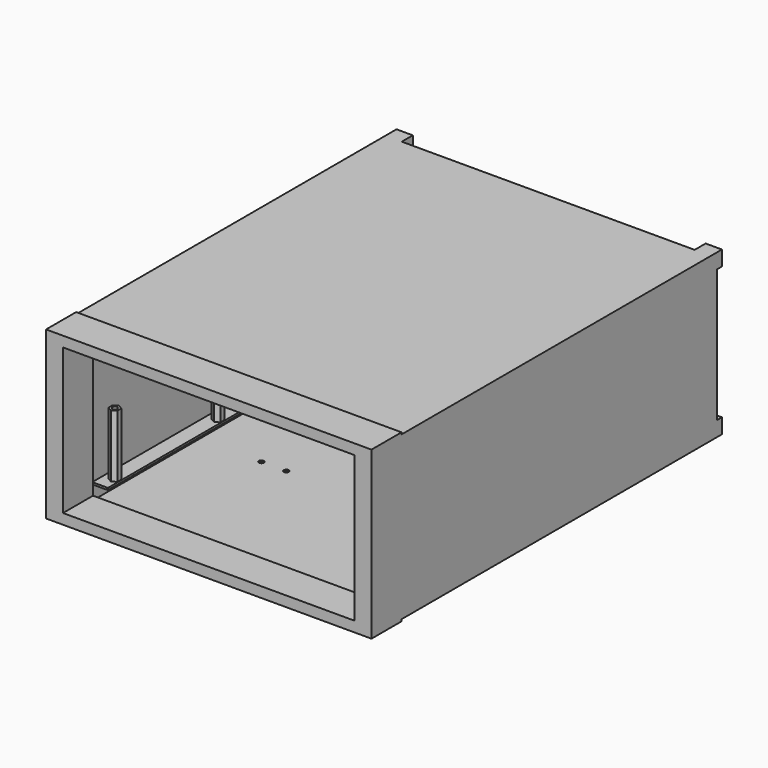
from build123d import *

# Parameters (mm, degrees)
F0_W      = 260
F0_H      = 350
F1_DEPTH  = 133
F2_W      = 260
F2_H      = 330
F3_DEPTH  = 1.5
F4_W      = 260
F4_H      = 330
F5_DEPTH  = 1.5
F6_W      = 234
F6_H      = 11
F7_DEPTH  = 131.501
F10_R     = 2
F11_DEPTH = 25
F12_W     = 239
F12_H     = 128
F13_DEPTH = 330.5
F14_W     = 260
F14_H     = 133
F14_W_2   = 233
F14_H_2   = 116.5
F15_DEPTH = 30
F9_W      = 13
F9_H      = 106
F8_W      = 13
F8_H      = 106
F16_DEPTH = 5
F17_W     = 230
F17_H     = 116.25
F18_DEPTH = 25
F19_W     = 281.5
F19_H     = 1.6
F20_DEPTH = 12.5
F21_W     = 281.5
F21_H     = 1.6
F22_DEPTH = 12.5
F23_R     = 2
F24_DEPTH = 50


with BuildPart() as f1:
    # F0 (on Top) → F1 (new body)
    with BuildSketch(Plane.XY):
        Rectangle(F0_W, F0_H)
    extrude(amount=F1_DEPTH)

    # F2 (on face) → F3 (cut)
    with BuildSketch(Plane.XY.offset(133)):
        with Locations((0, 10)):
            Rectangle(F2_W, F2_H)
    extrude(amount=-F3_DEPTH, mode=Mode.SUBTRACT)

    # F4 (on face) → F5 (cut)
    with BuildSketch(Plane(origin=(0, 0, 0), x_dir=(1, 0, 0), z_dir=(0, 0, -1))):
        with Locations((0, -10)):
            Rectangle(F4_W, F4_H)
    extrude(amount=-F5_DEPTH, mode=Mode.SUBTRACT)

    # F6 (on face) → F7 (cut, through all)
    with BuildSketch(Plane.XY.offset(131.5)):
        with Locations((0, 169.5)):
            Rectangle(F6_W, F6_H)
    extrude(amount=-F7_DEPTH, mode=Mode.SUBTRACT)

    # F10 (on face) → F11 (cut)
    with BuildSketch(Plane(origin=(0, 0, 1.5), x_dir=(1, 0, 0), z_dir=(0, 0, -1))):
        with Locations((70, 35)):
            Circle(F10_R)
        with Locations((50, 35)):
            Circle(F10_R)
        with Locations((-70, 35)):
            Circle(F10_R)
        with Locations((-50, 35)):
            Circle(F10_R)
        with Locations((70, -134)):
            Circle(F10_R)
        with Locations((50, -134)):
            Circle(F10_R)
        with Locations((-50, -134)):
            Circle(F10_R)
        with Locations((-70, -134)):
            Circle(F10_R)
    extrude(amount=-F11_DEPTH, mode=Mode.SUBTRACT)

    # F12 (on face) → F13 (cut)
    with BuildSketch(Plane.XZ.offset(175)):
        with Locations((0, 66.5)):
            Rectangle(F12_W, F12_H)
    extrude(amount=-F13_DEPTH, mode=Mode.SUBTRACT)

    # F14 (on face) → F15 (join)
    with BuildSketch(Plane.XZ.offset(175)):
        with Locations((0, 66.5)):
            Rectangle(F14_W, F14_H)
        with Locations((0, 66.5)):
            Rectangle(F14_W_2, F14_H_2, mode=Mode.SUBTRACT)
    extrude(amount=-F15_DEPTH)

    # F9 (on face) + F8 (on face) → F16 (cut)
    with BuildSketch(Plane(origin=(0, 175, 0), x_dir=(-1, 0, 0), z_dir=(0, 1, 0))):
        with Locations((-123.5, 66.5)):
            Rectangle(F9_W, F9_H)
    with BuildSketch(Plane(origin=(0, 175, 0), x_dir=(-1, 0, 0), z_dir=(0, 1, 0))):
        with Locations((123.5, 66.5)):
            Rectangle(F8_W, F8_H)
    extrude(amount=-F16_DEPTH, mode=Mode.SUBTRACT)

    # F17 (on face) → F18 (cut)
    with BuildSketch(Plane(origin=(0, 175, 0), x_dir=(-1, 0, 0), z_dir=(0, 1, 0))):
        with Locations((0, 66.5)):
            Rectangle(F17_W, F17_H)
    extrude(amount=-F18_DEPTH, mode=Mode.SUBTRACT)

    # F19 (on face) → F20 (join)
    with BuildSketch(Plane.YZ.offset(-119.5)):
        with Locations((-1.25, 14.8)):
            Rectangle(F19_W, F19_H)
    extrude(amount=F20_DEPTH)

    # F21 (on face) → F22 (join)
    with BuildSketch(Plane(origin=(119.5, 0, 0), x_dir=(0, -1, 0), z_dir=(-1, 0, 0))):
        with Locations((1.25, 14.8)):
            Rectangle(F21_W, F21_H)
    extrude(amount=F22_DEPTH)

    # F23 (on face) → F24 (join)
    with BuildSketch(Plane.XY.offset(15.6)):
        Polygon((111, -134.041452), (114.5, -132.020726), (114.5, -127.979274), (111, -125.958548), (107.5, -127.979274), (107.5, -132.020726), align=None)
        with Locations((111, -130)):
            Circle(F23_R, mode=Mode.SUBTRACT)
        Polygon((111, 71.958548), (114.5, 73.979274), (114.5, 78.020726), (111, 80.041452), (107.5, 78.020726), (107.5, 73.979274), align=None)
        with Locations((111, 76)):
            Circle(F23_R, mode=Mode.SUBTRACT)
        Polygon((111, -31.041452), (114.5, -29.020726), (114.5, -24.979274), (111, -22.958548), (107.5, -24.979274), (107.5, -29.020726), align=None)
        with Locations((111, -27)):
            Circle(F23_R, mode=Mode.SUBTRACT)
        Polygon((-111, -134.041452), (-107.5, -132.020726), (-107.5, -127.979274), (-111, -125.958548), (-114.5, -127.979274), (-114.5, -132.020726), align=None)
        with Locations((-111, -130)):
            Circle(F23_R, mode=Mode.SUBTRACT)
        Polygon((-107.5, -29.020726), (-107.5, -24.979274), (-111, -22.958548), (-114.5, -24.979274), (-114.5, -29.020726), (-111, -31.041452), align=None)
        with Locations((-111, -27)):
            Circle(F23_R, mode=Mode.SUBTRACT)
        Polygon((-111, 71.958548), (-107.5, 73.979274), (-107.5, 78.020726), (-111, 80.041452), (-114.5, 78.020726), (-114.5, 73.979274), align=None)
        with Locations((-111, 76)):
            Circle(F23_R, mode=Mode.SUBTRACT)
    extrude(amount=F24_DEPTH)


solid = f1.part
